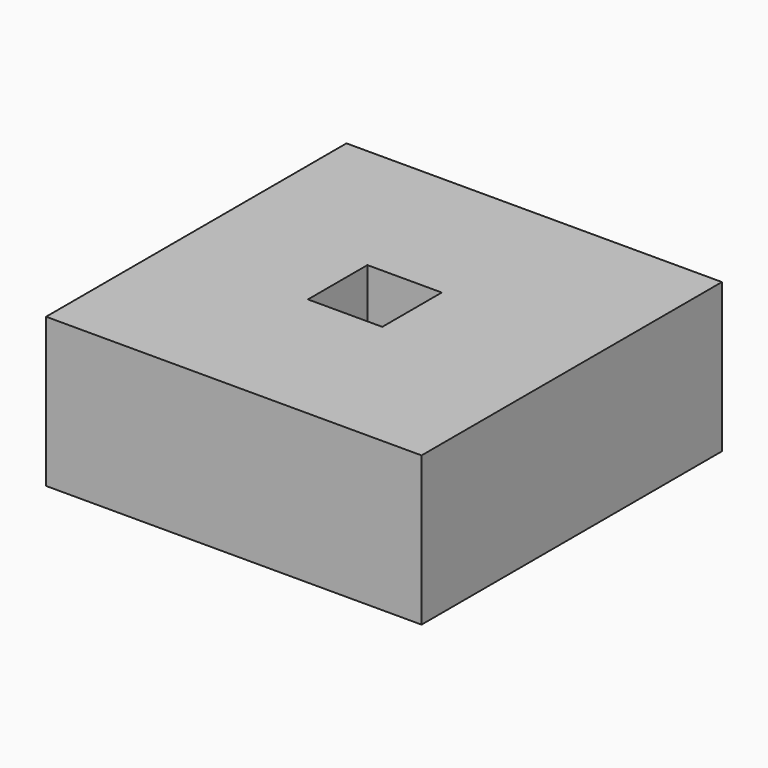
from build123d import *

# Parameters (mm, degrees)
F0_W     = 12.7
F0_H     = 12.7
F1_DEPTH = 2.54
F2_W     = 12.7
F2_H     = 12.7
F2_W_2   = 2.5146
F2_H_2   = 2.5146
F3_DEPTH = 2.5


with BuildPart() as f1:
    # F0 (on Top) → F1 (new body)
    with BuildSketch(Plane.XY):
        with Locations((-55.510964, 30.948431)):
            Rectangle(F0_W, F0_H)
    extrude(amount=-F1_DEPTH)

    # F2 (on face) → F3 (join)
    with BuildSketch(Plane.XY):
        with Locations((-55.510964, 30.948431)):
            Rectangle(F2_W, F2_H)
        with Locations((-55.821575, 30.949285)):
            Rectangle(F2_W_2, F2_H_2, mode=Mode.SUBTRACT)
    extrude(amount=F3_DEPTH)


solid = f1.part
